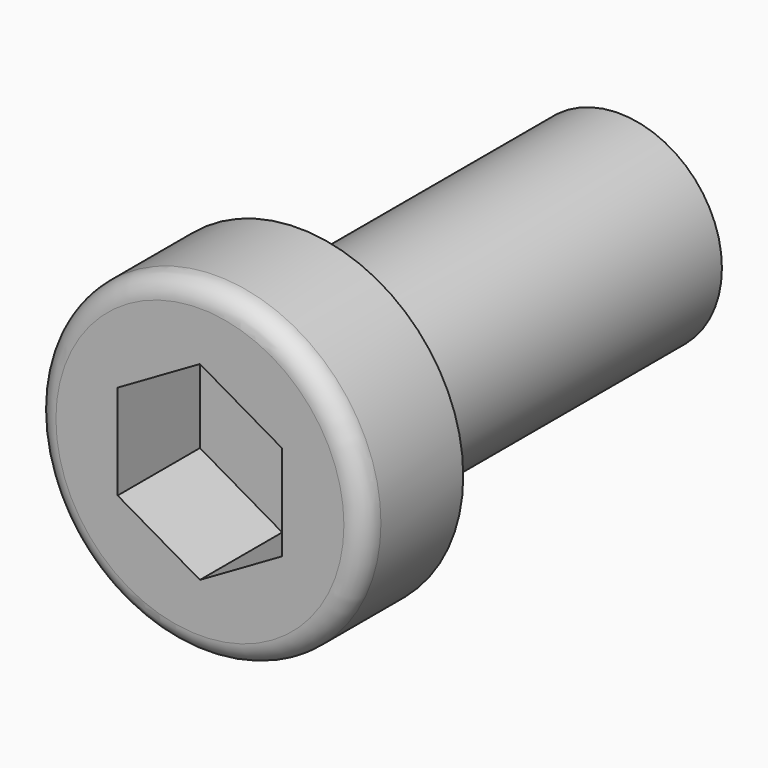
from build123d import *

# Parameters (mm, degrees)
POCKET_DEPTH = 5


with BuildPart() as part:
    # Sketch → Revolution (revolve)
    with BuildSketch(Plane.XY):
        with BuildLine():
            Line((5, 0), (8, 0))
            Line((8, 0), (8, -5))
            ThreePointArc((7, -6), (7.707107, -5.707107), (8, -5))
            Line((7, -6), (0, -6))
            Line((0, -6), (0, 20))
            Line((0, 20), (4.08, 20))
            Line((4.08, 20), (5, 19.468838))
            Line((5, 19.468838), (5, 0))
        make_face()
    revolve(axis=Axis((0, 0, 0), (0, 1, 0)))

    # Sketch001 → Pocket (cut)
    with BuildSketch(Plane.XZ.offset(6)):
        Polygon((-4, 2.309401), (-4, -2.309401), (0, -4.618802), (4, -2.309401), (4, 2.309401), (0, 4.618802), align=None)
    extrude(amount=-POCKET_DEPTH, mode=Mode.SUBTRACT)


solid = part.part
